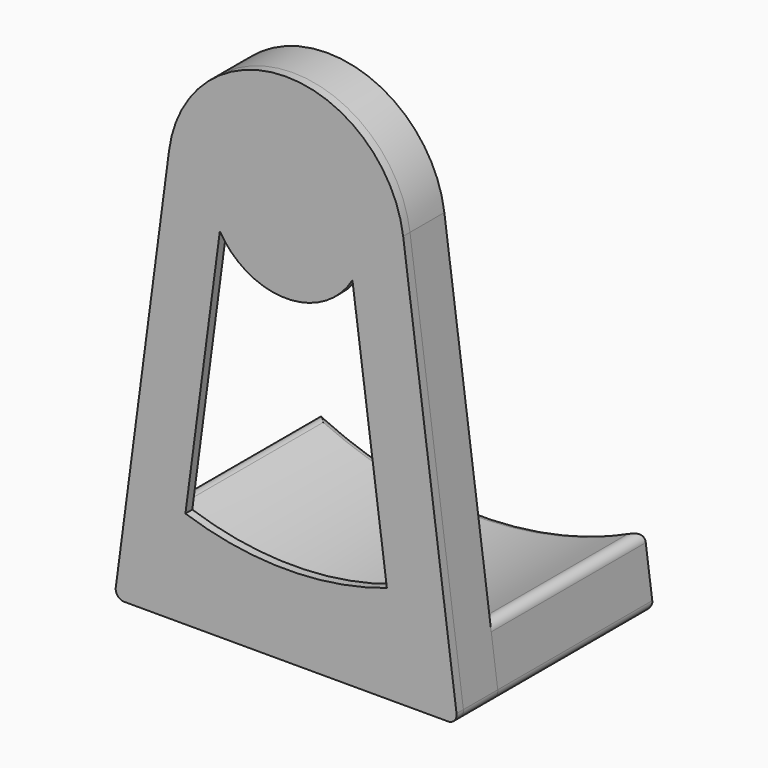
from build123d import *

# Parameters (mm, degrees)
F0_R      = 11
F0_R_2    = 10
F1_DEPTH  = 10
F3_DEPTH  = 2
F5_DEPTH  = 10
F7_DEPTH  = 45
F8_R      = 2
F8_2_R    = 2
F8_3_R    = 2
F9_R      = 2
F11_DEPTH = 6


with BuildPart() as f1:
    # F0 (on Front) → F1 (new body)
    with BuildSketch(Plane.XZ):
        with BuildLine():
            Line((40, -47.964626), (27.261609, 48.148502))
            ThreePointArc((27.261609, 48.148502), (-0.118055, 72.03512), (-27.291625, 47.914307))
            Line((-27.291625, 47.914307), (-40, -47.964626))
            Line((-40, -47.964626), (40, -47.964626))
        make_face()
        with BuildLine():
            Line((-37.717416, -45.964626), (-25.307815, 47.660196))
            ThreePointArc((-25.307815, 47.660196), (-0.113686, 70.03512), (25.278946, 47.885729))
            Line((25.278946, 47.885729), (37.71744, -45.964626))
            Line((37.71744, -45.964626), (-37.717416, -45.964626))
        make_face(mode=Mode.SUBTRACT)
        with Locations((0, 44.535374)):
            Circle(F0_R)
        with Locations((0, 44.535374)):
            Circle(F0_R_2, mode=Mode.SUBTRACT)
    extrude(amount=F1_DEPTH)

    # F8#2
    f8_2_edges = [f1.edges().sort_by_distance(p)[0] for p in [
        (-40, -5, -47.964626),
        (40, -5, -47.964626),
    ]]
    fillet(f8_2_edges, radius=F8_2_R)


with BuildPart() as f3:
    # F2 (on face) → F3 (new body)
    with BuildSketch(Plane.XZ.offset(10)):
        with BuildLine():
            Line((40, -47.964626), (27.261609, 48.148502))
            ThreePointArc((27.261609, 48.148502), (-0.118055, 72.03512), (-27.291625, 47.914307))
            Line((-27.291625, 47.914307), (-40, -47.964626))
            Line((-40, -47.964626), (40, -47.964626))
        make_face()
    extrude(amount=F3_DEPTH)

    # F8#3
    f8_3_edges = [f3.edges().sort_by_distance(p)[0] for p in [
        (-40, -11, -47.964626),
        (40, -11, -47.964626),
    ]]
    fillet(f8_3_edges, radius=F8_3_R)

    # F10 (on face) → F11 (cut)
    with BuildSketch(Plane(origin=(0, -10, 0), x_dir=(-1, 0, 0), z_dir=(0, 1, 0))):
        with BuildLine():
            Line((-15.447832, 35.296083), (-23.468704, -25.222636))
            ThreePointArc((-23.468704, -25.222636), (-0.000132, -29.064626), (23.468454, -25.22272))
            Line((23.468454, -25.22272), (15.447089, 35.294842))
            ThreePointArc((15.447089, 35.294842), (-0.000723, 26.535374), (-15.447832, 35.296083))
        make_face()
    extrude(amount=-F11_DEPTH, mode=Mode.SUBTRACT)


with BuildPart() as f5:
    # F4 (on face) → F5 (new body, through all)
    with BuildSketch(Plane(origin=(0, 0, 0), x_dir=(-1, 0, 0), z_dir=(0, 1, 0))):
        with BuildLine():
            ThreePointArc((35.932238, -32.496271), (-8.7e-05, -40.464626), (-35.932396, -32.496197))
            Line((-35.932396, -32.496197), (-37.71744, -45.964626))
            Line((-37.71744, -45.964626), (37.717416, -45.964626))
            Line((37.717416, -45.964626), (35.932238, -32.496271))
        make_face()
    extrude(amount=-F5_DEPTH)


with BuildPart() as f7:
    # F6 (on face) → F7 (new body)
    with BuildSketch(Plane(origin=(0, 0, 0), x_dir=(-1, 0, 0), z_dir=(0, 1, 0))):
        with BuildLine():
            Line((-37.828831, -31.582821), (-40, -47.964626))
            Line((-40, -47.964626), (40, -47.964626))
            Line((40, -47.964626), (37.828667, -31.582903))
            ThreePointArc((37.828667, -31.582903), (-9.2e-05, -40.464626), (-37.828831, -31.582821))
        make_face()
    extrude(amount=F7_DEPTH)

    # F8
    f8_edges = [f7.edges().sort_by_distance(p)[0] for p in [
        (-40, 22.5, -47.964626),
        (0, 45, -47.964626),
        (40, 22.5, -47.964626),
    ]]
    fillet(f8_edges, radius=F8_R)

    # F9
    f9_edges = [f7.edges().sort_by_distance(p)[0] for p in [
        (9.2e-05, 45, -40.464626),
        (37.828831, 22.5, -31.582821),
        (-37.828667, 22.5, -31.582903),
    ]]
    fillet(f9_edges, radius=F9_R)


solid = Compound([f1.part, f3.part, f5.part, f7.part])
